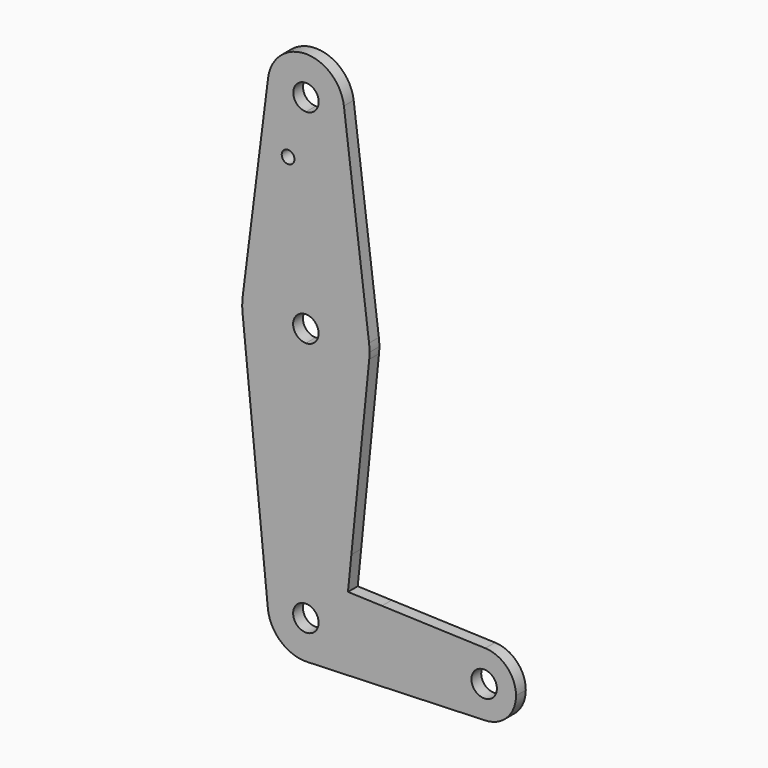
from build123d import *

# Parameters (mm, degrees)
F0_R     = 1.5875
F1_DEPTH = 3.048


with BuildPart() as f1:
    # F0 (on Front) → F1 (new body)
    with BuildSketch(Plane.XZ):
        with BuildLine():
            ThreePointArc((9.4805413384, 115.4851260897), (0.0350991762, 123.8249983877), (-9.4200414415, 115.4961231042))
            ThreePointArc((-9.4200414415, 115.4961231042), (-7.1178571934, 108.0039621615), (0.0240152274, 104.7750016123))
            ThreePointArc((0.0240152274, 104.7750016123), (6.7627896236, 107.5628488103), (9.5545572018, 114.3))
            ThreePointArc((9.5545572018, 114.3), (9.5360352274, 114.8937175668), (9.4805413384, 115.4851260897))
        make_face()
        with BuildLine():
            ThreePointArc((3.2045572018, 114.3), (2.2739680091, 112.0542829368), (0.027709877, 111.1250005374))
            ThreePointArc((0.027709877, 111.1250005374), (-2.2148536055, 116.5457170632), (3.2045572018, 114.3))
        make_face(mode=Mode.SUBTRACT)
        with BuildLine():
            Line((-9.4200414415, 115.4961231042), (-15.7493310722, 65.493538507))
            ThreePointArc((-15.7493310722, 65.493538507), (-10.4933963975, 75.4123573253), (0.009236624, 79.3749973129))
            Line((0.009236624, 79.3749973129), (0.0240152274, 104.7750016123))
            ThreePointArc((0.0240152274, 104.7750016123), (-7.1178571934, 108.0039621615), (-9.4200414415, 115.4961231042))
        make_face()
        with Locations((-4.4296222622, 99.7556020727)):
            Circle(F0_R, mode=Mode.SUBTRACT)
        with BuildLine():
            Line((0.0240152274, 104.7750016123), (0.009236624, 79.3749973129))
            ThreePointArc((0.009236624, 79.3749973129), (10.5072513333, 75.4001384201), (15.7516402278, 65.4752101494))
            Line((15.7516402278, 65.4752101494), (9.4805413384, 115.4851260897))
            ThreePointArc((9.4805413384, 115.4851260897), (9.5360352274, 114.8937175668), (9.5545572018, 114.3))
            ThreePointArc((9.5545572018, 114.3), (6.7627896236, 107.5628488103), (0.0240152274, 104.7750016123))
        make_face()
        with BuildLine():
            Line((0, 60.325), (0, 47.625))
            ThreePointArc((0, 47.625), (10.6492737428, 51.7267849017), (15.7954255641, 61.9125))
            ThreePointArc((15.7954255641, 61.9125), (15.8550939106, 62.7052534459), (15.875, 63.5))
            ThreePointArc((15.875, 63.5), (15.8441300426, 64.489529278), (15.7516402278, 65.4752101494))
            ThreePointArc((15.7516402278, 65.4752101494), (10.5072513333, 75.4001384201), (0.009236624, 79.3749973129))
            Line((0.009236624, 79.3749973129), (0.0018473248, 66.6749994626))
            ThreePointArc((0.0018473248, 66.6749994626), (2.2457170632, 65.7444108073), (3.175, 63.5))
            ThreePointArc((3.175, 63.5), (2.2450640303, 61.2549359697), (0, 60.325))
        make_face()
        with BuildLine():
            Line((-15.7954255641, 61.9125), (-9.4772553384, -0.9525))
            ThreePointArc((-9.4772553384, -0.9525), (-7.063929059, 6.3895642457), (0, 9.525))
            Line((0, 9.525), (0, 9.5310804347))
            Line((0, 9.5310804347), (0, 47.625))
            ThreePointArc((0, 47.625), (-10.6492737428, 51.7267849017), (-15.7954255641, 61.9125))
        make_face()
        with BuildLine():
            Line((0, 9.5310804347), (0.3401783049, 9.5189234539))
            Line((0.3401783049, 9.5189234539), (10.4932062399, 9.1560838367))
            Line((10.4932062399, 9.1560838367), (11.3411865923, 17.5933818124))
            Line((11.3411865923, 17.5933818124), (15.7954255641, 61.9125))
            ThreePointArc((15.7954255641, 61.9125), (10.6492737428, 51.7267849017), (0, 47.625))
            Line((0, 47.625), (0, 9.5310804347))
        make_face()
        with BuildLine():
            ThreePointArc((0, 9.525), (-7.063929059, 6.3895642457), (-9.4772553384, -0.9525))
            ThreePointArc((-9.4772553384, -0.9525), (-6.2623833816, -7.1769199091), (0.3401785714, -9.5189234444))
            ThreePointArc((0.3401785714, -9.5189234444), (6.8544082857, -6.6138273378), (9.525, 0))
            Line((9.525, 0), (3.175, 0))
            ThreePointArc((3.175, 0), (-2.2450640303, -2.2450640303), (0, 3.175))
            Line((0, 3.175), (0, 9.525))
        make_face()
        with BuildLine():
            Line((10.4932062399, 9.1560838367), (9.5729851903, 0))
            Line((9.5729851903, 0), (36.5125, 0))
            ThreePointArc((36.5125, 0), (38.9384772185, 5.7120069047), (44.7334821429, 7.9324362036))
            Line((44.7334821429, 7.9324362036), (18.9676000005, 8.8532337108))
            Line((18.9676000005, 8.8532337108), (10.4932062399, 9.1560838367))
        make_face()
        with BuildLine():
            ThreePointArc((9.525, 0), (6.8544082857, -6.6138273378), (0.3401785714, -9.5189234444))
            Line((0.3401785714, -9.5189234444), (44.7334821429, -7.9324362036))
            ThreePointArc((44.7334821429, -7.9324362036), (38.9384772185, -5.7120069047), (36.5125, 0))
            Line((36.5125, 0), (9.5729851903, 0))
            Line((9.5729851903, 0), (9.525, 0))
        make_face()
        with BuildLine():
            ThreePointArc((0.3401783049, 9.5189234539), (0.1701162864, 9.5234807423), (0, 9.525))
            Line((0, 9.525), (0, 3.175))
            ThreePointArc((0, 3.175), (2.2450640303, 2.2450640303), (3.175, 0))
            Line((3.175, 0), (9.525, 0))
            ThreePointArc((9.525, 0), (6.8544081931, 6.6138274337), (0.3401783049, 9.5189234539))
        make_face()
        with BuildLine():
            ThreePointArc((0.3401783049, 9.5189234539), (6.8544081931, 6.6138274337), (9.525, 0))
            Line((9.525, 0), (9.5729851903, 0))
            Line((9.5729851903, 0), (10.4932062399, 9.1560838367))
            Line((10.4932062399, 9.1560838367), (0.3401783049, 9.5189234539))
        make_face()
        with BuildLine():
            ThreePointArc((36.5125, 0), (38.9384772185, -5.7120069047), (44.7334821429, -7.9324362036))
            ThreePointArc((44.7334821429, -7.9324362036), (50.1620069047, -5.5115227815), (52.3875, 0))
            ThreePointArc((52.3875, 0), (50.1620069047, 5.5115227815), (44.7334821429, 7.9324362036))
            ThreePointArc((44.7334821429, 7.9324362036), (38.9384772185, 5.7120069047), (36.5125, 0))
        make_face()
        with BuildLine():
            ThreePointArc((47.625, 0), (44.45, -3.175), (41.275, 0))
            ThreePointArc((41.275, 0), (44.45, 3.175), (47.625, 0))
        make_face(mode=Mode.SUBTRACT)
        with BuildLine():
            ThreePointArc((-15.7493310722, 65.493538507), (-15.8736850481, 63.7043232558), (-15.7954255641, 61.9125))
            ThreePointArc((-15.7954255641, 61.9125), (-10.6492737428, 51.7267849017), (0, 47.625))
            Line((0, 47.625), (0, 60.325))
            ThreePointArc((0, 60.325), (-3.1749998656, 63.5009236624), (0.0018473248, 66.6749994626))
            Line((0.0018473248, 66.6749994626), (0.009236624, 79.3749973129))
            ThreePointArc((0.009236624, 79.3749973129), (-10.4933963975, 75.4123573253), (-15.7493310722, 65.493538507))
        make_face()
    extrude(amount=F1_DEPTH)


solid = f1.part
